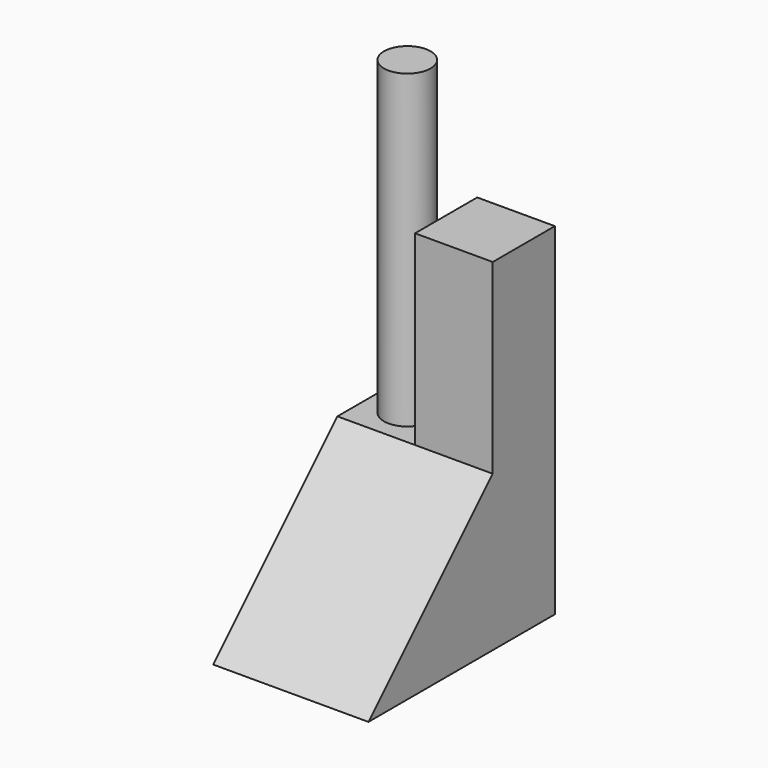
from build123d import *

# Parameters (mm, degrees)
F1_DEPTH = 5
F2_W     = 5
F2_H     = 5
F3_DEPTH = 12
F4_R     = 1.5
F5_DEPTH = 20


with BuildPart() as f1:
    # F0 (on Right) → F1 (new body, symmetric)
    with BuildSketch(Plane.YZ):
        Polygon((-5.680779, 3.206832), (-10.680779, 3.206832), (-20.680779, -6.793168), (-5.680779, -6.793168), align=None)
    extrude(amount=F1_DEPTH, both=True)

    # F2 (on face) → F3 (join)
    with BuildSketch(Plane.XY.offset(3.206832)):
        with Locations((2.5, -8.180779)):
            Rectangle(F2_W, F2_H)
    extrude(amount=F3_DEPTH)

    # F4 (on face) → F5 (join)
    with BuildSketch(Plane.XY.offset(3.206832)):
        with Locations((-2.5, -8.180779)):
            Circle(F4_R)
    extrude(amount=F5_DEPTH)


solid = f1.part
